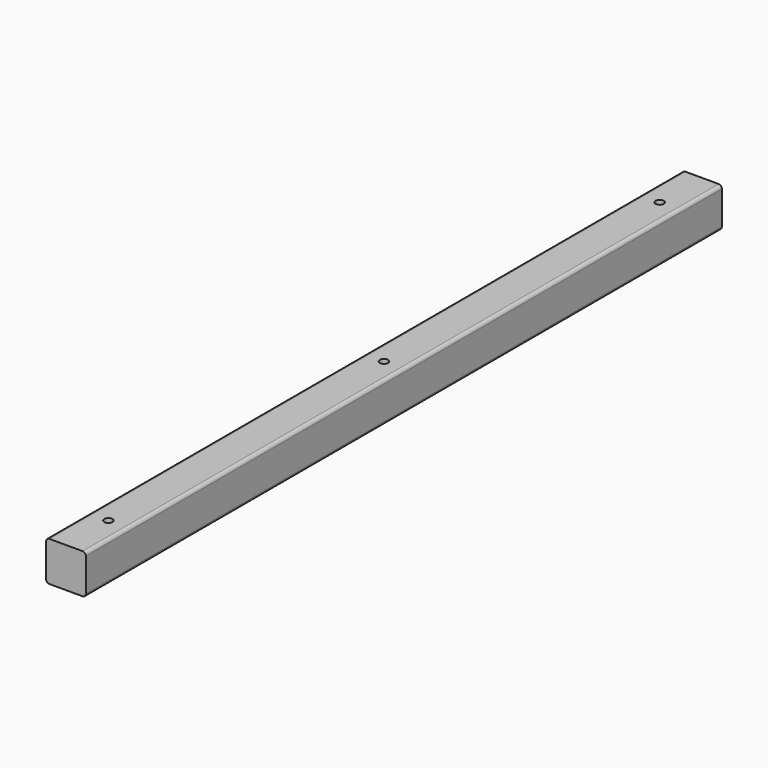
from build123d import *

# Parameters (mm, degrees)
CYLINDER_R                 = 3.96875
CYLINDER_DEPTH             = 50.8
EXTRUDE015_DEPTH           = 762
EXTRUDE015_PITCH_ANGLE     = -90
EXTRUDE015_PLACEMENT_ANGLE = -90


with BuildPart() as cylinder:
    # Cylinder → Cylinder (new body)
    with BuildSketch(Plane(origin=(381, 203.2, 16.66875), x_dir=(1, 0, 0), z_dir=(0, 0, 1))):
        Circle(CYLINDER_R)
    extrude(amount=CYLINDER_DEPTH)


with BuildPart() as cylinder003:
    # Link054 base: copy of Cylinder
    add(cylinder.part)


with BuildPart() as cylinder003_1:
    # Link054 placement: moved
    add(cylinder003.part.moved(Location((-349.249989, 508.0005, -3.968746))))


with BuildPart() as cylinder002:
    # Link053 base: copy of Cylinder
    add(cylinder.part)


with BuildPart() as cylinder002_1:
    # Link053 placement: moved
    add(cylinder002.part.moved(Location((-349.249989, 177.800183, -3.968753))))


with BuildPart() as cylinder001:
    # Link052 base: copy of Cylinder
    add(cylinder.part)


with BuildPart() as cylinder001_1:
    # Link052 placement: moved
    add(cylinder001.part.moved(Location((-349.250002, -152.399982, -3.968748))))


with BuildPart() as baffle_frame_d:
    # Sketch015 → Extrude015 (new body)
    with BuildSketch(Plane.XY):
        with BuildLine():
            Line((0, 34.925), (0, 3.175))
            ThreePointArc((0, 3.175), (0.929936, 0.929936), (3.175, 0))
            Line((34.925, 0), (3.175, 0))
            ThreePointArc((34.925, 0), (37.170064, 0.929936), (38.1, 3.175))
            Line((38.1, 34.925), (38.1, 3.175))
            ThreePointArc((38.1, 34.925), (37.170064, 37.170064), (34.925, 38.1))
            Line((3.175, 38.1), (34.925, 38.1))
            ThreePointArc((3.175, 38.1), (0.929936, 37.170064), (0, 34.925))
        make_face()
    extrude(amount=EXTRUDE015_DEPTH)


with BuildPart() as baffle_frame_d_1:
    # Extrude015 pitch: moved
    add(baffle_frame_d.part.rotate(Axis((0, 0, 0), (0, 1, 0)), EXTRUDE015_PITCH_ANGLE))


with BuildPart() as baffle_frame_d_2:
    # Extrude015 placement: moved
    add(baffle_frame_d_1.part.moved(Location((12.7, 0, 19.05))).rotate(Axis((12.7, 0, 19.05), (0, 0, 1)), EXTRUDE015_PLACEMENT_ANGLE))

    # Cut001: cut Cylinder001
    add(cylinder001_1.part, mode=Mode.SUBTRACT)

    # Cut002: cut Cylinder002
    add(cylinder002_1.part, mode=Mode.SUBTRACT)

    # Cut003: cut Cylinder003
    add(cylinder003_1.part, mode=Mode.SUBTRACT)


solid = baffle_frame_d_2.part
